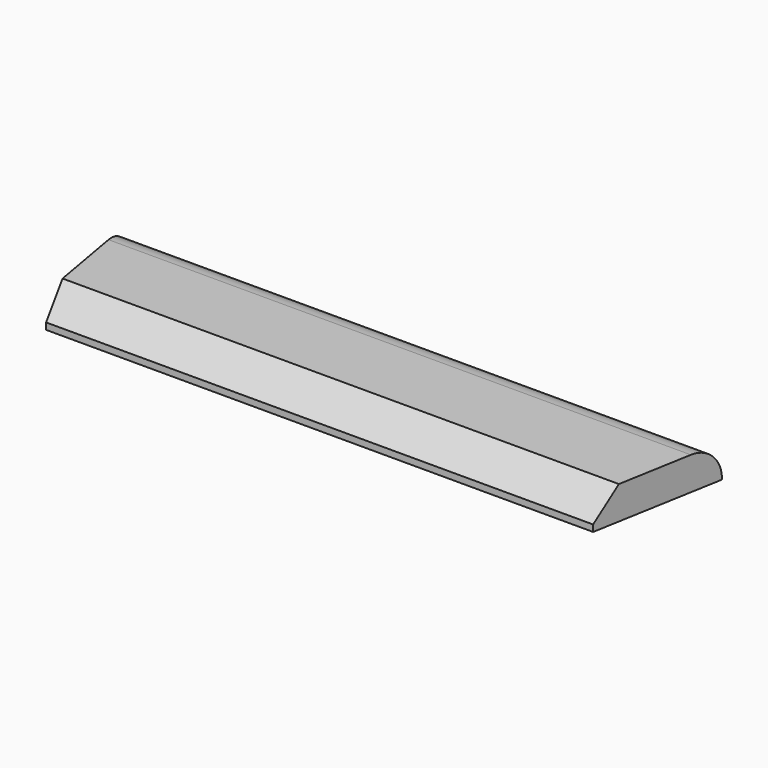
from build123d import *

# Parameters (mm, degrees)
F0_W     = 101.6
F0_H     = 25.4
F1_DEPTH = 228.6
F2_R     = 24.5364
F4_DEPTH = 25.4
F5_SIZE  = 20.32


with BuildPart() as f1:
    # F0 (on Right) → F1 (new body)
    with BuildSketch(Plane.YZ):
        with Locations((-50.8, 12.7)):
            Rectangle(F0_W, F0_H)
    extrude(amount=F1_DEPTH)

    # F2
    f2_edges = [f1.edges().sort_by_distance(p)[0] for p in [
        (114.3, 0, 25.4),
    ]]
    fillet(f2_edges, radius=F2_R)

    # F3 (on face) → F4 (cut)
    with BuildSketch(Plane(origin=(0, 0, 0), x_dir=(1, 0, 0), z_dir=(0, 0, -1))):
        Polygon((210.685179, 101.6), (228.6, 0), (228.6, 101.6), align=None)
    extrude(amount=-F4_DEPTH, mode=Mode.SUBTRACT)

    # F5
    f5_edges = [f1.edges().sort_by_distance(p)[0] for p in [
        (105.342589, -101.6, 25.4),
    ]]
    chamfer(f5_edges, length=F5_SIZE)

    # F6: F1 across plane


with BuildPart() as f1_1:
    add(f1.part)
    add(f1.part.mirror(Plane.YZ))


solid = f1_1.part
